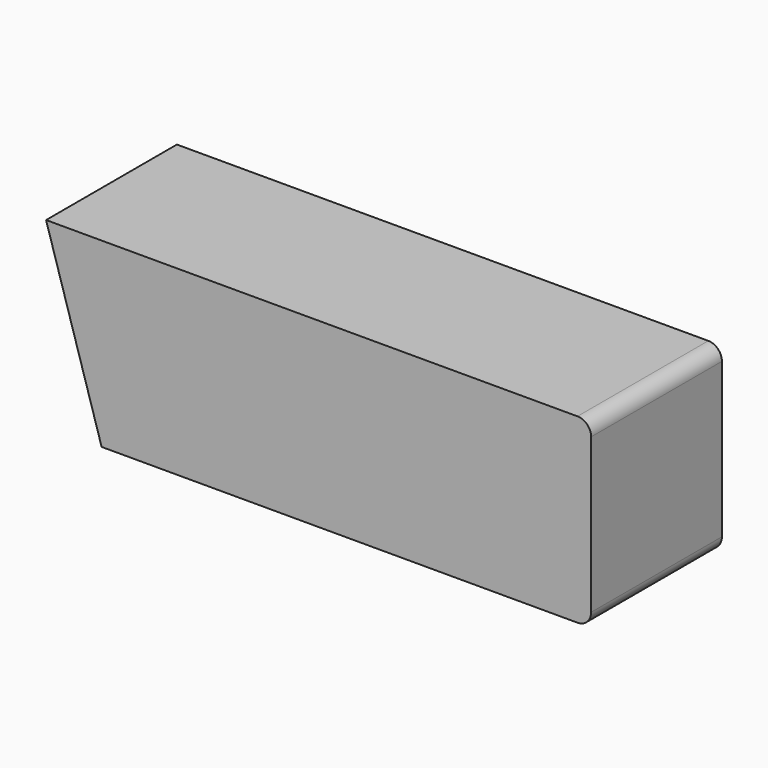
from build123d import *

# Parameters (mm, degrees)
F0_W     = 600
F0_H     = 200
F1_DEPTH = 180
F3_DEPTH = 180.001
F4_R     = 15


with BuildPart() as f1:
    # F0 (on Front) → F1 (new body)
    with BuildSketch(Plane.XZ):
        Rectangle(F0_W, F0_H)
    extrude(amount=-F1_DEPTH)

    # F2 (on face) → F3 (cut, through all)
    with BuildSketch(Plane.XZ):
        Polygon((-238.853864, -100), (-300, 100), (-300, -100), align=None)
    extrude(amount=-F3_DEPTH, mode=Mode.SUBTRACT)

    # F4
    f4_edges = [f1.edges().sort_by_distance(p)[0] for p in [
        (300, 90, 100),
        (300, 90, -100),
    ]]
    fillet(f4_edges, radius=F4_R)


solid = f1.part
